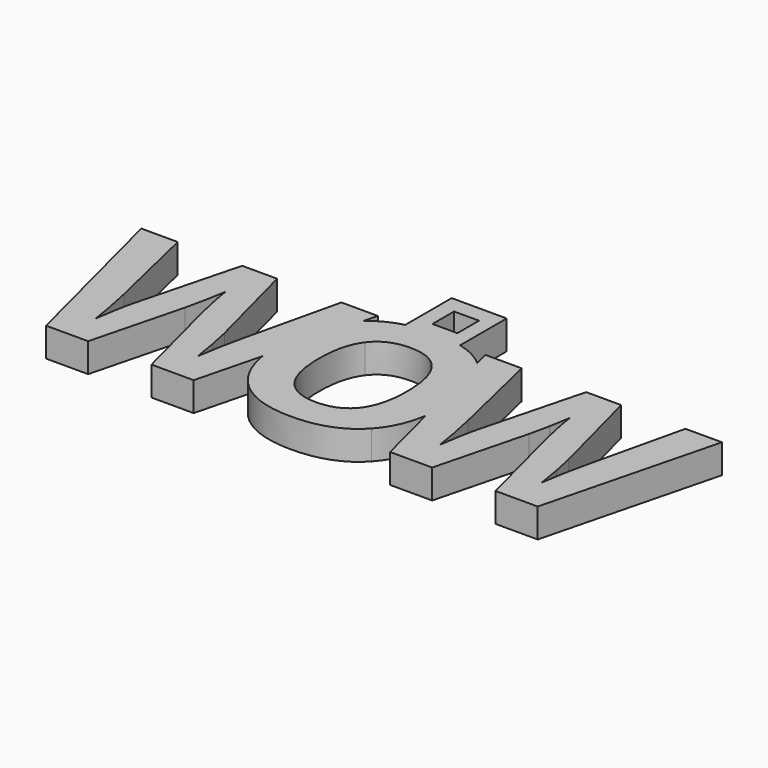
from build123d import *

# Parameters (mm, degrees)
F0_W     = 4.2884426657
F0_H     = 4.6554207802
F1_DEPTH = 5


with BuildPart() as f1:
    # F0 (on Top) → F1 (new body)
    with BuildSketch(Plane.XY):
        with BuildLine():
            Line((0, 34.1648682952), (-9.4748642296, 34.101113677))
            Line((-9.4748642296, 34.101113677), (-9.4748642296, 35.3339686341))
            add(Edge.make_bspline(
                [(-14.5754463948, 32.7304336343), (-12.461096702, 34.5684357885), (-9.4748642296, 35.3339686341)],
                knots=[0.1083350146, 0.1083350146, 0.1083350146, 0.628619133, 0.628619133, 0.628619133], degree=2))
            Line((-14.5754463948, 32.7304336343), (-18.7880718964, 16.1805747203))
            add(Edge.make_bspline(
                [(-15.428036076, 8.9111522718), (-18.0024923275, 11.7007186457), (-18.7880718964, 16.1805747203)],
                knots=[0, 0, 0, 0.6948561202, 0.6948561202, 0.6948561202], degree=2))
            add(Edge.make_bspline(
                [(-4.8069769728, 4.8965565984), (-11.7230154586, 4.8965565984), (-15.428036076, 8.9111522718)],
                knots=[0, 0, 0, 1, 1, 1], degree=2))
            add(Edge.make_bspline(
                [(5.8140821305, 8.9111522718), (2.1090615131, 4.8965565984), (-4.8069769728, 4.8965565984)],
                knots=[0, 0, 0, 1, 1, 1], degree=2))
            add(Edge.make_bspline(
                [(9.2055165337, 16.3447369284), (8.4412143544, 11.7577959882), (5.8140821305, 8.9111522718)],
                knots=[0.2909264225, 0.2909264225, 0.2909264225, 1, 1, 1], degree=2))
            Line((9.2055165337, 16.3447369284), (5.0368892491, 32.6796066227))
            add(Edge.make_bspline(
                [(0, 35.3122932316), (2.9558799099, 34.5319186151), (5.0368892491, 32.6796066227)],
                knots=[0.377110803, 0.377110803, 0.377110803, 0.8951173554, 0.8951173554, 0.8951173554], degree=2))
            Line((0, 35.3122932316), (0, 34.1648682952))
        make_face()
        with BuildLine():
            add(Edge.make_bspline(
                [(-12.4409661205, 20.4016562133), (-12.4409661205, 15.3562414703), (-10.5275288061, 12.8038939339)],
                knots=[0, 0, 0, 1, 1, 1], degree=2))
            add(Edge.make_bspline(
                [(-10.5077686961, 28.0027118444), (-12.4409661205, 25.440484253), (-12.4409661205, 20.4016562133)],
                knots=[0, 0, 0, 1, 1, 1], degree=2))
            add(Edge.make_bspline(
                [(-4.7674567528, 30.5649394359), (-8.5745712717, 30.5649394359), (-10.5077686961, 28.0027118444)],
                knots=[0, 0, 0, 1, 1, 1], degree=2))
            add(Edge.make_bspline(
                [(2.827012175, 20.4016562133), (2.827012175, 30.5649394359), (-4.7674567528, 30.5649394359)],
                knots=[0, 0, 0, 1, 1, 1], degree=2))
            add(Edge.make_bspline(
                [(-4.8069769728, 10.2515463974), (2.827012175, 10.2515463974), (2.827012175, 20.4016562133)],
                knots=[0, 0, 0, 1, 1, 1], degree=2))
            add(Edge.make_bspline(
                [(-10.5275288061, 12.8038939339), (-8.6140914916, 10.2515463974), (-4.8069769728, 10.2515463974)],
                knots=[0, 0, 0, 1, 1, 1], degree=2))
        make_face(mode=Mode.SUBTRACT)
        with BuildLine():
            Line((-9.4748642296, 35.3339686341), (-9.4748642296, 34.101113677))
            Line((-9.4748642296, 34.101113677), (0, 34.1648682952))
            Line((0, 34.1648682952), (0, 35.3122932316))
            add(Edge.make_bspline(
                [(-4.7674567528, 35.880409015), (-2.1518921746, 35.880409015), (0, 35.3122932316)],
                knots=[0, 0, 0, 0.377110803, 0.377110803, 0.377110803], degree=2))
            add(Edge.make_bspline(
                [(-9.4748642296, 35.3339686341), (-7.3432796485, 35.880409015), (-4.7674567528, 35.880409015)],
                knots=[0.628619133, 0.628619133, 0.628619133, 1, 1, 1], degree=2))
        make_face()
        with BuildLine():
            Line((-9.4748642296, 45.3200861812), (-9.4748642296, 35.3339686341))
            add(Edge.make_bspline(
                [(-9.4748642296, 35.3339686341), (-7.3432796485, 35.880409015), (-4.7674567528, 35.880409015)],
                knots=[0.628619133, 0.628619133, 0.628619133, 1, 1, 1], degree=2))
            add(Edge.make_bspline(
                [(-4.7674567528, 35.880409015), (-2.1518921746, 35.880409015), (0, 35.3122932316)],
                knots=[0, 0, 0, 0.377110803, 0.377110803, 0.377110803], degree=2))
            Line((0, 35.3122932316), (0, 45.3200861812))
            Line((0, 45.3200861812), (-9.4748642296, 45.3200861812))
        make_face()
        with Locations((-4.6429432696, 40.1529334486)):
            Rectangle(F0_W, F0_H, mode=Mode.SUBTRACT)
        with BuildLine():
            add(Edge.make_bspline(
                [(-15.418156021, 31.9185069681), (-15.0157022025, 32.3477196841), (-14.5754463948, 32.7304336343)],
                knots=[0, 0, 0, 0.1083350146, 0.1083350146, 0.1083350146], degree=2))
            Line((-14.5754463948, 32.7304336343), (-13.9802033126, 35.0689251585))
            Line((-13.9802033126, 35.0689251585), (-20.2639182798, 35.0689251585))
            Line((-20.2639182798, 35.0689251585), (-24.0907929086, 18.6416870787))
            add(Edge.make_bspline(
                [(-24.9141308236, 14.7621188234), (-24.4596482945, 17.1596788318), (-24.0907929086, 18.6416870787)],
                knots=[0, 0, 0, 1, 1, 1], degree=2))
            add(Edge.make_bspline(
                [(-25.5728011556, 10.7574032049), (-25.3686133526, 12.3645588149), (-24.9141308236, 14.7621188234)],
                knots=[0, 0, 0, 1, 1, 1], degree=2))
            add(Edge.make_bspline(
                [(-26.2281781359, 14.7522387684), (-25.7967490684, 12.4238391448), (-25.5728011556, 10.7574032049)],
                knots=[0, 0, 0, 1, 1, 1], degree=2))
            add(Edge.make_bspline(
                [(-26.9494221494, 18.2069646596), (-26.6596072033, 17.0806383919), (-26.2281781359, 14.7522387684)],
                knots=[0, 0, 0, 1, 1, 1], degree=2))
            Line((-26.9494221494, 18.2069646596), (-31.3361665604, 35.0689251585))
            Line((-31.3361665604, 35.0689251585), (-37.3630000981, 35.0689251585))
            Line((-37.3630000981, 35.0689251585), (-41.7497445091, 18.2069646596))
            add(Edge.make_bspline(
                [(-42.5829624791, 14.3899700858), (-42.138360005, 16.8501037757), (-41.7497445091, 18.2069646596)],
                knots=[0, 0, 0, 1, 1, 1], degree=2))
            add(Edge.make_bspline(
                [(-43.1527123162, 10.7574032049), (-43.0275649532, 11.9298363958), (-42.5829624791, 14.3899700858)],
                knots=[0, 0, 0, 1, 1, 1], degree=2))
            add(Edge.make_bspline(
                [(-44.6083737499, 18.6416870787), (-43.600608142, 14.0902750847), (-43.1527123162, 10.7574032049)],
                knots=[0, 0, 0, 1, 1, 1], degree=2))
            Line((-44.6083737499, 18.6416870787), (-48.461595192, 35.0689251585))
            Line((-48.461595192, 35.0689251585), (-54.7387234559, 35.0689251585))
            Line((-54.7387234559, 35.0689251585), (-47.0586273849, 4.9742776901))
            Line((-47.0586273849, 4.9742776901), (-39.8132537331, 4.9742776901))
            Line((-39.8132537331, 4.9742776901), (-35.7624311914, 20.7428454378))
            add(Edge.make_bspline(
                [(-34.9983736063, 24.2502649556), (-35.4923763553, 21.7901312656), (-35.7624311914, 20.7428454378)],
                knots=[0, 0, 0, 1, 1, 1], degree=2))
            add(Edge.make_bspline(
                [(-34.3792234942, 27.8235515066), (-34.5043708573, 26.7103986456), (-34.9983736063, 24.2502649556)],
                knots=[0, 0, 0, 1, 1, 1], degree=2))
            add(Edge.make_bspline(
                [(-33.7534866788, 24.2700250656), (-34.3001830544, 26.9145864485), (-34.3792234942, 27.8235515066)],
                knots=[0, 0, 0, 1, 1, 1], degree=2))
            add(Edge.make_bspline(
                [(-32.9828423904, 20.7823656577), (-33.2067903033, 21.6254636826), (-33.7534866788, 24.2700250656)],
                knots=[0, 0, 0, 1, 1, 1], degree=2))
            Line((-32.9828423904, 20.7823656577), (-28.9056730354, 4.9742776901))
            Line((-28.9056730354, 4.9742776901), (-21.6405392736, 4.9742776901))
            Line((-21.6405392736, 4.9742776901), (-18.7880718964, 16.1805747203))
            add(Edge.make_bspline(
                [(-18.7880718964, 16.1805747203), (-19.1330566934, 18.147889426), (-19.1330566934, 20.4411764332)],
                knots=[0.6948561202, 0.6948561202, 0.6948561202, 1, 1, 1], degree=2))
            add(Edge.make_bspline(
                [(-19.1330566934, 20.4411764332), (-19.1330566934, 27.9566049212), (-15.418156021, 31.9185069681)],
                knots=[0, 0, 0, 1, 1, 1], degree=2))
        make_face()
        with BuildLine():
            Line((-18.7880718964, 16.1805747203), (-14.5754463948, 32.7304336343))
            add(Edge.make_bspline(
                [(-15.418156021, 31.9185069681), (-15.0157022025, 32.3477196841), (-14.5754463948, 32.7304336343)],
                knots=[0, 0, 0, 0.1083350146, 0.1083350146, 0.1083350146], degree=2))
            add(Edge.make_bspline(
                [(-19.1330566934, 20.4411764332), (-19.1330566934, 27.9566049212), (-15.418156021, 31.9185069681)],
                knots=[0, 0, 0, 1, 1, 1], degree=2))
            add(Edge.make_bspline(
                [(-18.7880718964, 16.1805747203), (-19.1330566934, 18.147889426), (-19.1330566934, 20.4411764332)],
                knots=[0.6948561202, 0.6948561202, 0.6948561202, 1, 1, 1], degree=2))
        make_face()
        with BuildLine():
            Line((4.3841088191, 35.2375429732), (5.0368892491, 32.6796066227))
            add(Edge.make_bspline(
                [(5.0368892491, 32.6796066227), (5.4582386738, 32.30456237), (5.8437222954, 31.8855734515)],
                knots=[0.8951173554, 0.8951173554, 0.8951173554, 1, 1, 1], degree=2))
            add(Edge.make_bspline(
                [(5.8437222954, 31.8855734515), (9.5191027479, 27.890737888), (9.5191027479, 20.4016562133)],
                knots=[0, 0, 0, 1, 1, 1], degree=2))
            add(Edge.make_bspline(
                [(9.5191027479, 20.4016562133), (9.5191027479, 18.2267169659), (9.2055165337, 16.3447369284)],
                knots=[0, 0, 0, 0.2909264225, 0.2909264225, 0.2909264225], degree=2))
            Line((9.2055165337, 16.3447369284), (12.06420489, 5.1428955048))
            Line((12.06420489, 5.1428955048), (19.3095785419, 5.1428955048))
            Line((19.3095785419, 5.1428955048), (23.3604010836, 20.9114632526))
            add(Edge.make_bspline(
                [(24.1244586687, 24.4188827704), (23.6304559197, 21.9587490804), (23.3604010836, 20.9114632526)],
                knots=[0, 0, 0, 1, 1, 1], degree=2))
            add(Edge.make_bspline(
                [(24.7436087807, 27.9921693214), (24.6184614177, 26.8790164603), (24.1244586687, 24.4188827704)],
                knots=[0, 0, 0, 1, 1, 1], degree=2))
            add(Edge.make_bspline(
                [(25.3693455961, 24.4386428803), (24.8226492206, 27.0832042633), (24.7436087807, 27.9921693214)],
                knots=[0, 0, 0, 1, 1, 1], degree=2))
            add(Edge.make_bspline(
                [(26.1399898845, 20.9509834725), (25.9160419717, 21.7940814974), (25.3693455961, 24.4386428803)],
                knots=[0, 0, 0, 1, 1, 1], degree=2))
            Line((26.1399898845, 20.9509834725), (30.2171592395, 5.1428955048))
            Line((30.2171592395, 5.1428955048), (37.4822930013, 5.1428955048))
            Line((37.4822930013, 5.1428955048), (45.1426289623, 35.2375429732))
            Line((45.1426289623, 35.2375429732), (38.8589139952, 35.2375429732))
            Line((38.8589139952, 35.2375429732), (35.0320393663, 18.8103048935))
            add(Edge.make_bspline(
                [(34.2087014514, 14.9307366381), (34.6631839804, 17.3282966466), (35.0320393663, 18.8103048935)],
                knots=[0, 0, 0, 1, 1, 1], degree=2))
            add(Edge.make_bspline(
                [(33.5500311194, 10.9260210197), (33.7542189223, 12.5331766297), (34.2087014514, 14.9307366381)],
                knots=[0, 0, 0, 1, 1, 1], degree=2))
            add(Edge.make_bspline(
                [(32.8946541391, 14.9208565832), (33.3260832065, 12.5924569596), (33.5500311194, 10.9260210197)],
                knots=[0, 0, 0, 1, 1, 1], degree=2))
            add(Edge.make_bspline(
                [(32.1734101255, 18.3755824744), (32.4632250716, 17.2492562067), (32.8946541391, 14.9208565832)],
                knots=[0, 0, 0, 1, 1, 1], degree=2))
            Line((32.1734101255, 18.3755824744), (27.7866657145, 35.2375429732))
            Line((27.7866657145, 35.2375429732), (21.7598321768, 35.2375429732))
            Line((21.7598321768, 35.2375429732), (17.3730877658, 18.3755824744))
            add(Edge.make_bspline(
                [(16.5398697959, 14.5585879006), (16.9844722699, 17.0187215905), (17.3730877658, 18.3755824744)],
                knots=[0, 0, 0, 1, 1, 1], degree=2))
            add(Edge.make_bspline(
                [(15.9701199587, 10.9260210197), (16.0952673218, 12.0984542106), (16.5398697959, 14.5585879006)],
                knots=[0, 0, 0, 1, 1, 1], degree=2))
            add(Edge.make_bspline(
                [(14.514458525, 18.8103048935), (15.5222241329, 14.2588928995), (15.9701199587, 10.9260210197)],
                knots=[0, 0, 0, 1, 1, 1], degree=2))
            Line((14.514458525, 18.8103048935), (10.6612370829, 35.2375429732))
            Line((10.6612370829, 35.2375429732), (4.3841088191, 35.2375429732))
        make_face()
        with BuildLine():
            add(Edge.make_bspline(
                [(5.0368892491, 32.6796066227), (5.4582386738, 32.30456237), (5.8437222954, 31.8855734515)],
                knots=[0.8951173554, 0.8951173554, 0.8951173554, 1, 1, 1], degree=2))
            Line((5.0368892491, 32.6796066227), (9.2055165337, 16.3447369284))
            add(Edge.make_bspline(
                [(9.5191027479, 20.4016562133), (9.5191027479, 18.2267169659), (9.2055165337, 16.3447369284)],
                knots=[0, 0, 0, 0.2909264225, 0.2909264225, 0.2909264225], degree=2))
            add(Edge.make_bspline(
                [(5.8437222954, 31.8855734515), (9.5191027479, 27.890737888), (9.5191027479, 20.4016562133)],
                knots=[0, 0, 0, 1, 1, 1], degree=2))
        make_face()
    extrude(amount=F1_DEPTH)


solid = f1.part
